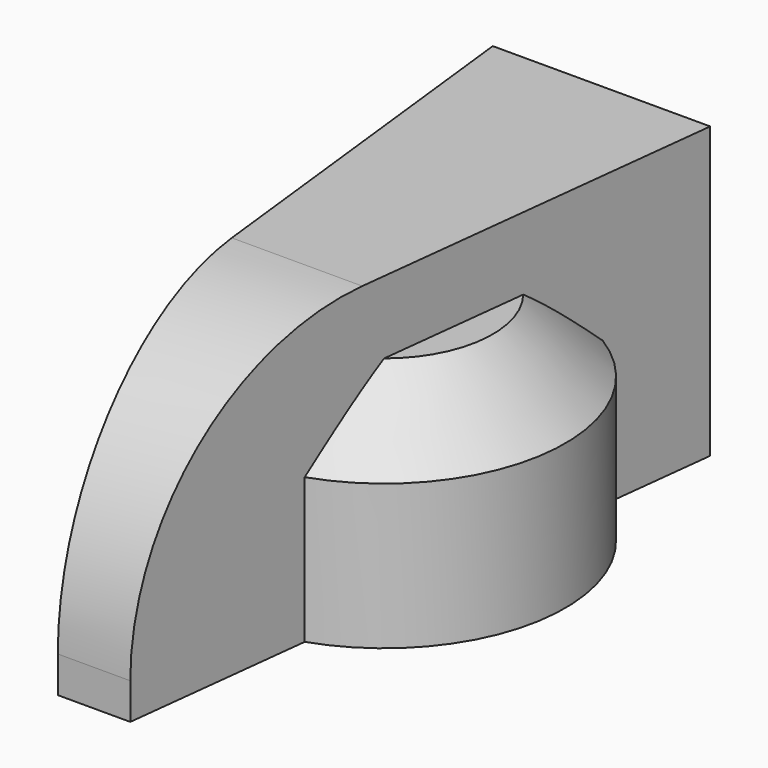
from build123d import *

# Parameters (mm, degrees)
PAD_DEPTH    = 8
SKETCH001_R  = 5
PAD001_DEPTH = 6
POCKET_DEPTH = 5.5
PAD002_DEPTH = 1
CHAMFER_SIZE = 2
FILLET_R     = 7


with BuildPart() as part:
    # Sketch → Pad (new body)
    with BuildSketch(Plane.XY):
        Polygon((1, -10), (3, 7.5), (0, 7.5), (-3, 7.5), (-1, -10), (0, -10), align=None)
    extrude(amount=PAD_DEPTH)

    # Sketch001 (on Face2 of Pad) → Pad001 (join)
    with BuildSketch(Plane(origin=(0, 0, 0), x_dir=(1, 0, 0), z_dir=(0, 0, -1))):
        Circle(SKETCH001_R)
    extrude(amount=-PAD001_DEPTH)

    # Sketch002 (on Face9 of Pad001) → Pocket (cut)
    with BuildSketch(Plane(origin=(0, 0, 0), x_dir=(1, 0, 0), z_dir=(0, 0, -1))):
        with BuildLine():
            Line((-1.549193, -1.7), (1.549193, -1.7))
            ThreePointArc((1.549193, -1.7), (0, 2.3), (-1.549193, -1.7))
        make_face()
    extrude(amount=-POCKET_DEPTH, mode=Mode.SUBTRACT)

    # Sketch003 (on Face13 of Pocket) → Pad002 (join)
    with BuildSketch(Plane(origin=(0, 0, 5.5), x_dir=(1, 0, 0), z_dir=(0, 0, -1))):
        with BuildLine():
            Line((-2.286373, 0.25), (2.286373, 0.25))
            ThreePointArc((2.286373, -0.25), (2.313709, 0), (2.286373, 0.25))
            Line((-2.286373, -0.25), (2.286373, -0.25))
            ThreePointArc((-2.286373, 0.25), (-2.3, 0), (-2.286373, -0.25))
        make_face()
    extrude(amount=PAD002_DEPTH)

    # Chamfer
    chamfer_edges = [part.edges().sort_by_distance(p)[0] for p in [
        (4.062492, -2.914818, 6),
        (4.367186, 2.434685, 6),
        (-4.967663, -0.567733, 6),
    ]]
    chamfer(chamfer_edges, length=CHAMFER_SIZE)

    # Fillet
    fillet_edges = [part.edges().sort_by_distance(p)[0] for p in [
        (0, -10, 8),
    ]]
    fillet(fillet_edges, radius=FILLET_R)


solid = part.part
